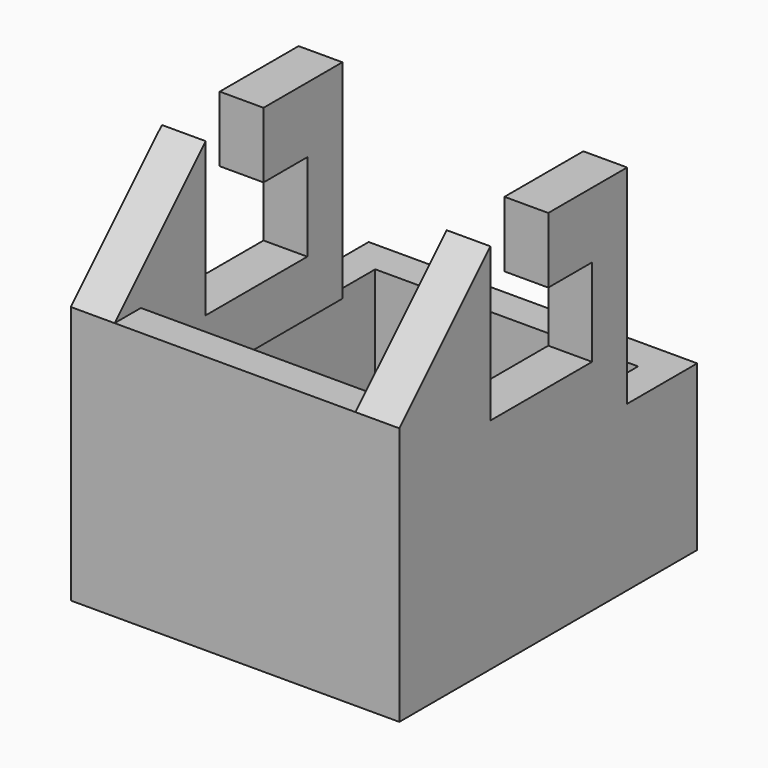
from build123d import *

# Parameters (mm, degrees)
F1_DEPTH = 15
F2_W     = 12
F2_H     = 14
F3_DEPTH = 7.5
F4_W     = 11
F4_H     = 14
F5_DEPTH = 17
F6_W     = 11
F6_H     = 1.5
F7_DEPTH = 5.2


with BuildPart() as f1:
    # F0 (on Right) → F1 (new body)
    with BuildSketch(Plane.YZ):
        Polygon((-17, 0), (0, 0), (0, 7.5), (-4, 7.5), (-4, 17), (-8.5, 17), (-8.5, 14), (-6, 14), (-6, 10), (-11.8, 10), (-11.8, 17), (-17, 11.8), align=None)
    extrude(amount=F1_DEPTH)

    # F2 (on face) → F3 (cut)
    with BuildSketch(Plane(origin=(0, 0, 0), x_dir=(1, 0, 0), z_dir=(0, 0, -1))):
        with Locations((7.5, 8.5)):
            Rectangle(F2_W, F2_H)
    extrude(amount=-F3_DEPTH, mode=Mode.SUBTRACT)

    # F4 (on face) → F5 (cut)
    with BuildSketch(Plane.XY.offset(17)):
        with Locations((7.5, -8.5)):
            Rectangle(F4_W, F4_H)
    extrude(amount=-F5_DEPTH, mode=Mode.SUBTRACT)

    # F6 (on face) → F7 (cut)
    with BuildSketch(Plane.XY.offset(17)):
        with Locations((7.5, -16.25)):
            Rectangle(F6_W, F6_H)
    extrude(amount=-F7_DEPTH, mode=Mode.SUBTRACT)


solid = f1.part
